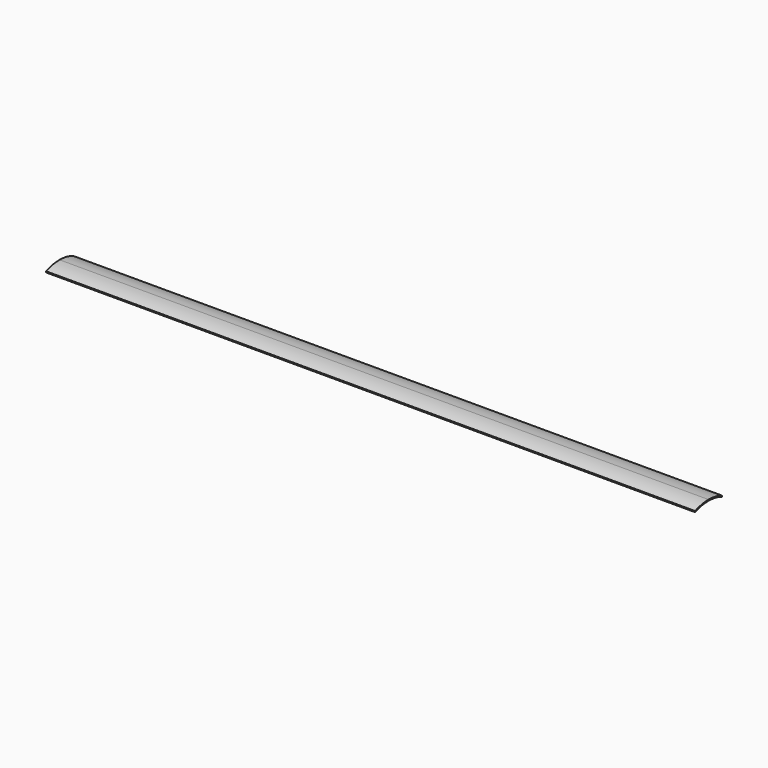
from build123d import *

# Parameters (mm, degrees)
F1_DEPTH = 300


with BuildPart() as f1:
    # F0 (on Right) → F1 (new body)
    with BuildSketch(Plane.YZ):
        with BuildLine():
            ThreePointArc((0, 0.5), (3.946913, 0.121552), (7.75, -1))
            Line((7.75, -1), (7.75, -0.5))
            ThreePointArc((7.75, -0.5), (3.946913, 0.621552), (0, 1))
            Line((0, 1), (0, 0.5))
        make_face()
        with BuildLine():
            ThreePointArc((-7.75, -1), (-3.946913, 0.121552), (0, 0.5))
            Line((0, 0.5), (0, 1))
            ThreePointArc((0, 1), (-3.946913, 0.621552), (-7.75, -0.5))
            Line((-7.75, -0.5), (-7.75, -1))
        make_face()
    extrude(amount=F1_DEPTH)


solid = f1.part
